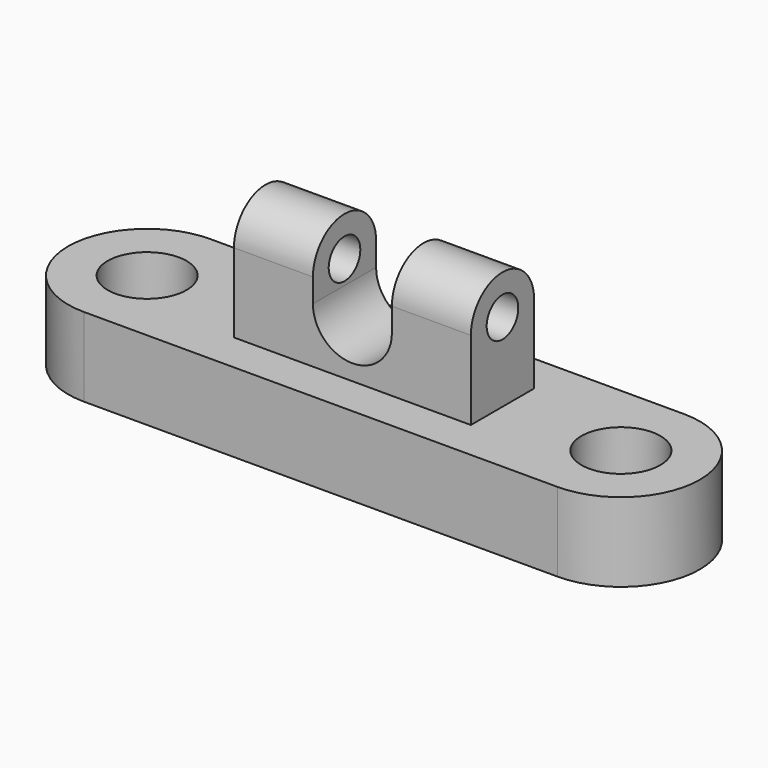
from build123d import *

# Parameters (mm, degrees)
F0_R          = 12.7
F1_DEPTH      = 25.4
F2_R          = 6.35
F3_DEPTH      = 38.1
F3_DEPTH_BACK = 38.1
F5_DEPTH      = 25.4
F5_DEPTH_BACK = 25.4


with BuildPart() as f1:
    # F0 (on Top) → F1 (new body)
    with BuildSketch(Plane.XY):
        with BuildLine():
            Line((76.2, 25.4), (-76.2, 25.4))
            ThreePointArc((-76.2, 25.4), (-101.6, 0), (-76.2, -25.4))
            Line((-76.2, -25.4), (76.2, -25.4))
            ThreePointArc((76.2, -25.4), (101.6, 0), (76.2, 25.4))
        make_face()
        with Locations((-76.2, 0)):
            Circle(F0_R, mode=Mode.SUBTRACT)
        with Locations((76.2, 0)):
            Circle(F0_R, mode=Mode.SUBTRACT)
    extrude(amount=F1_DEPTH)

    # F2 (on Right) → F3 (join, two sides)
    with BuildSketch(Plane.YZ) as f3_sk:
        with BuildLine():
            Line((-12.7, 50.8), (-12.7, 25.4))
            Line((-12.7, 25.4), (12.7, 25.4))
            Line((12.7, 25.4), (12.7, 50.8))
            ThreePointArc((12.7, 50.8), (0, 63.5), (-12.7, 50.8))
        make_face()
        with Locations((0, 50.8)):
            Circle(F2_R, mode=Mode.SUBTRACT)
    extrude(amount=F3_DEPTH)
    extrude(f3_sk.sketch, amount=-F3_DEPTH_BACK)

    # F4 (on Front) → F5 (cut, two sides)
    with BuildSketch(Plane.XZ) as f5_sk:
        with BuildLine():
            Line((12.7, 43.18), (12.7, 63.5))
            Line((12.7, 63.5), (-12.7, 63.5))
            Line((-12.7, 63.5), (-12.7, 43.18))
            ThreePointArc((-12.7, 43.18), (0, 30.48), (12.7, 43.18))
        make_face()
    extrude(amount=-F5_DEPTH, mode=Mode.SUBTRACT)
    extrude(f5_sk.sketch, amount=F5_DEPTH_BACK, mode=Mode.SUBTRACT)


solid = f1.part
